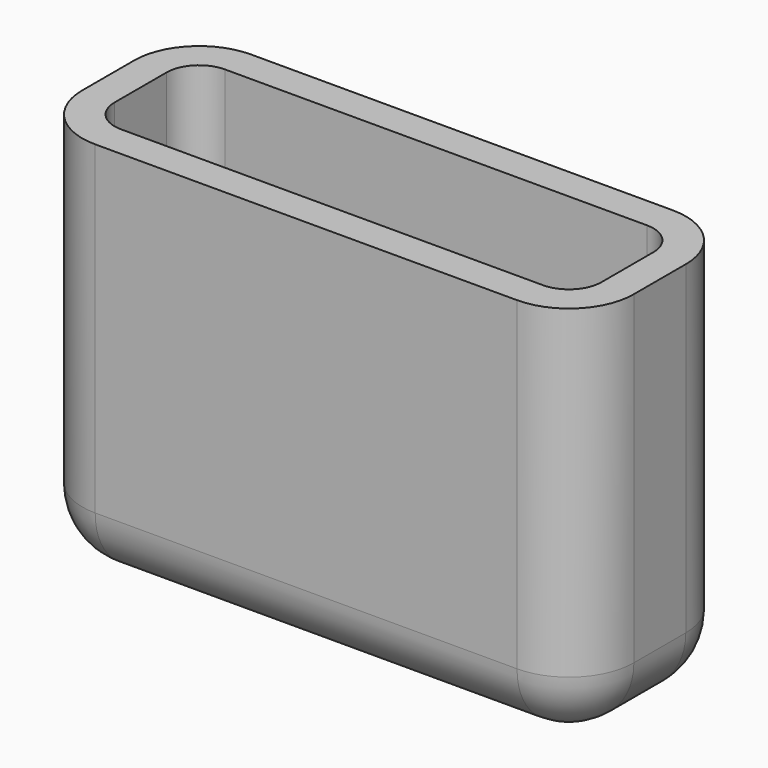
from build123d import *

# Parameters (mm, degrees)
F0_W     = 170
F0_H     = 60
F1_DEPTH = 60
F2_R     = 20
F3_T     = -10
F4_SCALE = 1.2


with BuildPart() as f1:
    # F0 (on Top) → F1 (new body, symmetric)
    with BuildSketch(Plane.XY):
        Rectangle(F0_W, F0_H)
    extrude(amount=F1_DEPTH, both=True)

    # F2
    f2_edges = [f1.edges().sort_by_distance(p)[0] for p in [
        (-85, -30, 0),
        (-85, 30, 0),
        (85, -30, 0),
        (85, 30, 0),
        (0, 30, -60),
        (0, -30, -60),
        (-85, 0, -60),
        (85, 0, -60),
    ]]
    fillet(f2_edges, radius=F2_R)

    # F3
    f3_openings = [f1.faces().sort_by_distance(p)[0] for p in [
        (0, 0, 60),
    ]]
    offset(amount=F3_T, openings=f3_openings)


with BuildPart() as f1_1:
    # F4: moved
    add(f1.part.scale(F4_SCALE))


solid = f1_1.part
